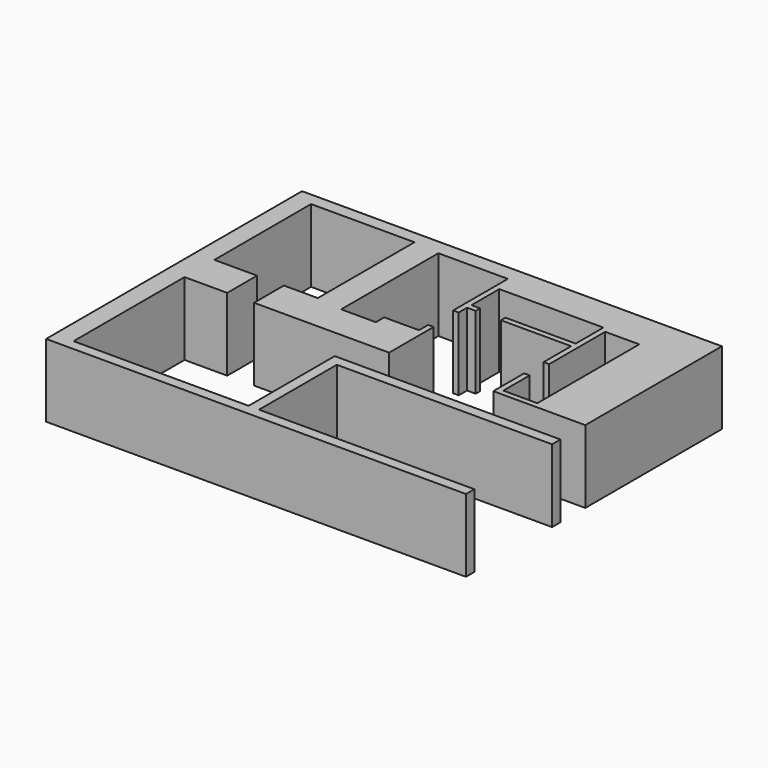
from build123d import *

# Parameters (mm, degrees)
F1_DEPTH = 2100


with BuildPart() as f1:
    # F0 (on Top) → F1 (new body)
    with BuildSketch(Plane.XY):
        Polygon((12092.596531, 0), (0, 0), (0, -9213.200569), (12092.596531, -9213.200569), (12092.596531, -8913.200569), (5892.596531, -8913.200569), (5892.596531, -6113.200569), (12092.596531, -6113.200569), (12092.596531, -5813.200569), (5592.596531, -5813.200569), (5592.596531, -8913.200569), (551.504275, -8913.200569), (551.504275, -4918.200569), (1781.002333, -4918.200569), (1781.002333, -3843.557787), (551.504275, -3843.557787), (551.504275, -363.018793), (3528.749168, -363.018793), (3528.749168, -3843.557787), (2552.648237, -3843.557787), (2552.648237, -4918.200569), (6442.596531, -4918.200569), (6442.596531, -3313.200569), (6282.596531, -3313.200569), (6282.596531, -3644.359225), (5282.596531, -3644.359225), (5282.596531, -3944.359225), (4282.596531, -3944.359225), (4282.596531, -444.359225), (6282.596531, -444.359225), (6282.596531, -2413.200569), (6442.596531, -2413.200569), (6442.596531, -2113.200569), (6692.596531, -2113.200569), (6692.596531, -1953.200569), (6442.596531, -1953.200569), (6442.596531, -953.200569), (9442.596531, -953.200569), (9442.596531, -1953.200569), (7420.596531, -1953.200569), (7420.596531, -2113.200569), (9442.596531, -2113.200569), (9442.596531, -3108.200569), (9602.596531, -3108.200569), (9602.596531, -1088.200569), (10582.596531, -1088.200569), (10582.596531, -4758.200569), (9602.596531, -4758.200569), (9602.596531, -3808.200569), (9442.596531, -3808.200569), (9442.596531, -4918.200569), (12092.596531, -4918.200569), align=None)
    extrude(amount=F1_DEPTH)


solid = f1.part
